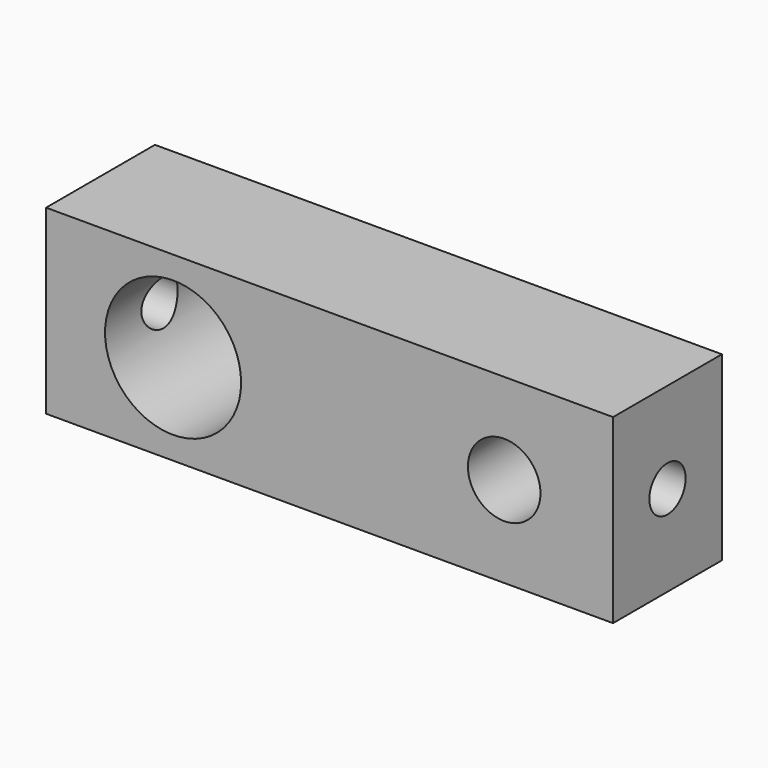
from build123d import *

# Parameters (mm, degrees)
F0_W        = 62.5
F0_H        = 20
F0_R        = 7.5
F0_R_2      = 4
F1_DEPTH    = 7.5
F1_FACE_W   = 62.5
F1_FACE_H   = 20
F1_FACE_R   = 7.5
F1_FACE_R_2 = 4
F2_DEPTH    = 7.5
F3_R        = 2.5
F4_DEPTH    = 10
F5_R        = 2.5
F6_DEPTH    = 12


with BuildPart() as f1:
    # F0 (on Front) → F1 (new body)
    with BuildSketch(Plane.XZ):
        with Locations((-2, 0)):
            Rectangle(F0_W, F0_H)
        with Locations((-19.25, 0)):
            Circle(F0_R, mode=Mode.SUBTRACT)
        with Locations((17.25, 0)):
            Circle(F0_R_2, mode=Mode.SUBTRACT)
    extrude(amount=F1_DEPTH)

    # F1_face (on face) → F2 (join)
    with BuildSketch(Plane(origin=(0.033896, -7.5, 0), x_dir=(1, 0, 0), z_dir=(0, -1, 0))):
        with Locations((-2.033896, 0)):
            Rectangle(F1_FACE_W, F1_FACE_H)
        with Locations((-19.283896, 0)):
            Circle(F1_FACE_R, mode=Mode.SUBTRACT)
        with Locations((17.216104, 0)):
            Circle(F1_FACE_R_2, mode=Mode.SUBTRACT)
    extrude(amount=F2_DEPTH)

    # F3 (on face) → F4 (cut)
    with BuildSketch(Plane(origin=(-33.25, 0, 0), x_dir=(0, -1, 0), z_dir=(-1, 0, 0))):
        with Locations((7.5, 0)):
            Circle(F3_R)
    extrude(amount=-F4_DEPTH, mode=Mode.SUBTRACT)

    # F5 (on face) → F6 (cut)
    with BuildSketch(Plane.YZ.offset(29.25)):
        with Locations((-7.5, 0)):
            Circle(F5_R)
    extrude(amount=-F6_DEPTH, mode=Mode.SUBTRACT)


solid = f1.part
